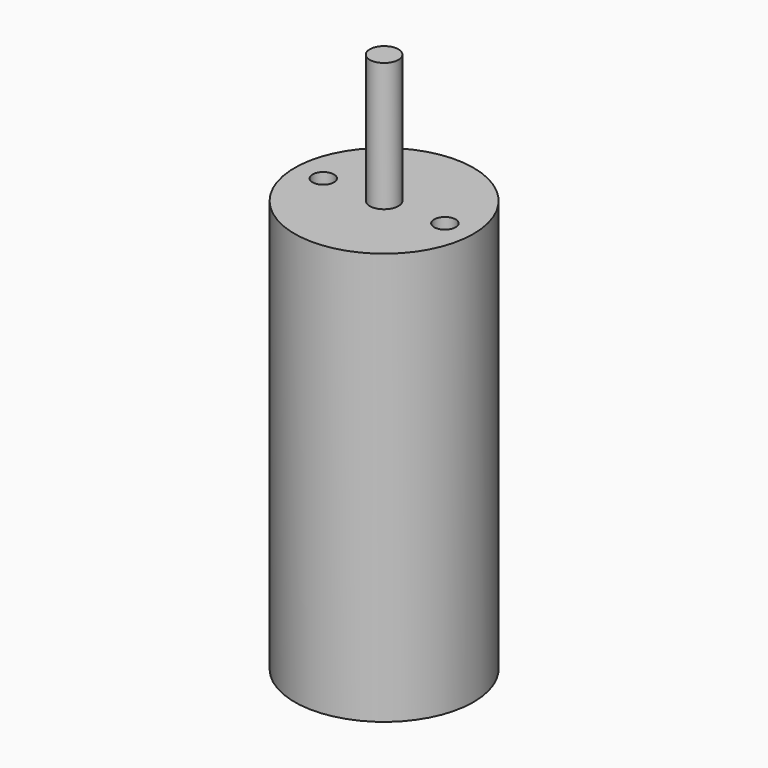
from build123d import *

# Parameters (mm, degrees)
F0_R     = 12.5
F1_DEPTH = 57.61
F2_R     = 2
F3_DEPTH = 18
F4_R     = 1.5
F5_DEPTH = 12.7


with BuildPart() as f1:
    # F0 (on Top) → F1 (new body)
    with BuildSketch(Plane.XY):
        Circle(F0_R)
    extrude(amount=F1_DEPTH)

    # F2 (on face) → F3 (join)
    with BuildSketch(Plane.XY.offset(57.61)):
        Circle(F2_R)
    extrude(amount=F3_DEPTH)

    # F4 (on face) → F5 (cut)
    with BuildSketch(Plane.XY.offset(57.61)):
        with Locations((-8.5, 0)):
            Circle(F4_R)
        with Locations((8.5, 0)):
            Circle(F4_R)
    extrude(amount=-F5_DEPTH, mode=Mode.SUBTRACT)


solid = f1.part
